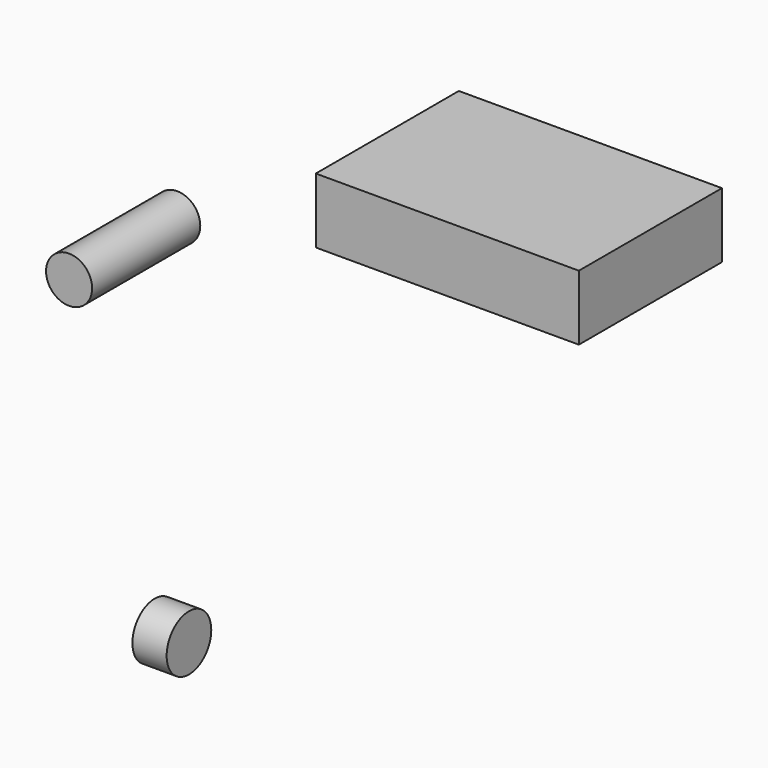
from build123d import *

# Parameters (mm, degrees)
F0_W     = 78.104727
F0_H     = 19.33689
F1_DEPTH = 31.242
F2_R     = 6.839642
F3_DEPTH = 40.132
F4_W     = 78.104727
F4_H     = 19.33689
F4_R     = 7.002522
F5_DEPTH = 21.844
F6_R     = 8.27947
F7_DEPTH = 10.16


with BuildPart() as f1:
    # F0 (on Front) → F1 (new body)
    with BuildSketch(Plane.XZ):
        with Locations((39.052363, 9.668445)):
            Rectangle(F0_W, F0_H)
    extrude(amount=-F1_DEPTH)

    # F4 (on face) → F5 (join)
    with BuildSketch(Plane(origin=(0, 31.242, 0), x_dir=(-1, 0, 0), z_dir=(0, 1, 0))):
        with Locations((-39.052363, 9.668445)):
            Rectangle(F4_W, F4_H)
        with Locations((-32.421403, 10.425067)):
            Circle(F4_R, mode=Mode.SUBTRACT)
    extrude(amount=F5_DEPTH)


with BuildPart() as f3:
    # F2 (on Front) → F3 (new body)
    with BuildSketch(Plane.XZ):
        with Locations((-41.133404, -5.481018)):
            Circle(F2_R)
    extrude(amount=F3_DEPTH)


with BuildPart() as f7:
    # F6 (on Right) → F7 (new body)
    with BuildSketch(Plane.YZ):
        with Locations((-59.762951, -75.728841)):
            Circle(F6_R)
    extrude(amount=F7_DEPTH)


solid = Compound([f1.part, f3.part, f7.part])
